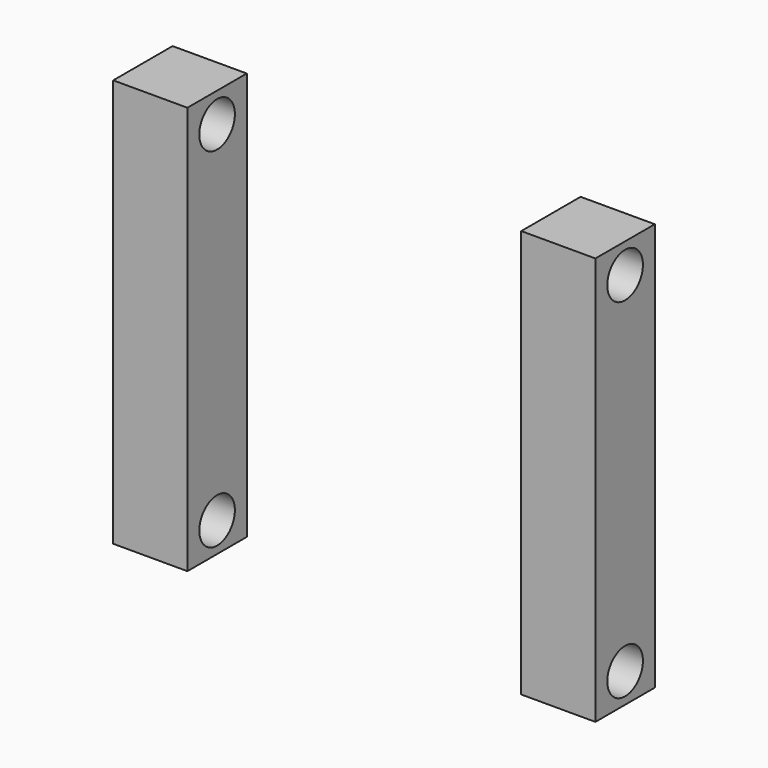
from build123d import *

# Parameters (mm, degrees)
F0_W     = 100
F0_H     = 100
F1_DEPTH = 550
F2_R     = 30
F3_DEPTH = 100
F4_R     = 30
F5_DEPTH = 100
F6_R     = 30
F7_DEPTH = 100
F8_R     = 30
F9_DEPTH = 100


with BuildPart() as f1:
    # F0 (on Top) → F1 (new body)
    with BuildSketch(Plane.XY):
        with Locations((-275, 0)):
            Rectangle(F0_W, F0_H)
        with Locations((275, 0)):
            Rectangle(F0_W, F0_H)
    extrude(amount=F1_DEPTH)

    # F2 (on face) → F3 (cut)
    with BuildSketch(Plane(origin=(-325, 0, 0), x_dir=(0, -1, 0), z_dir=(-1, 0, 0))):
        with Locations((0, 510)):
            Circle(F2_R)
    extrude(amount=-F3_DEPTH, mode=Mode.SUBTRACT)

    # F4 (on face) → F5 (cut)
    with BuildSketch(Plane.YZ.offset(325)):
        with Locations((0, 510)):
            Circle(F4_R)
    extrude(amount=-F5_DEPTH, mode=Mode.SUBTRACT)

    # F6 (on face) → F7 (cut)
    with BuildSketch(Plane(origin=(-325, 0, 0), x_dir=(0, -1, 0), z_dir=(-1, 0, 0))):
        with Locations((0, 40)):
            Circle(F6_R)
    extrude(amount=-F7_DEPTH, mode=Mode.SUBTRACT)

    # F8 (on face) → F9 (cut)
    with BuildSketch(Plane.YZ.offset(325)):
        with Locations((0, 40)):
            Circle(F8_R)
    extrude(amount=-F9_DEPTH, mode=Mode.SUBTRACT)


solid = f1.part
